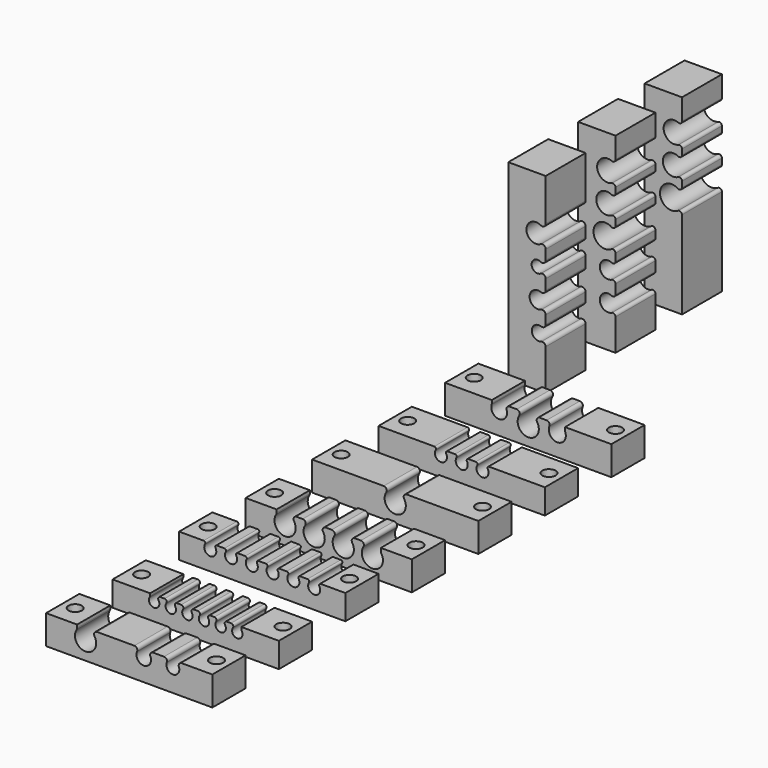
from build123d import *

# Parameters (mm, degrees)
PAD010_DEPTH            = 10
SKETCH018_R             = 1.6
POCKET001_DEPTH         = 6.001
BODY012_PLACEMENT_ANGLE = 180
PAD011_DEPTH            = 10
SKETCH019_R             = 1.6
POCKET002_DEPTH         = 6.001
BODY013_PLACEMENT_ANGLE = 180
PAD012_DEPTH            = 10
SKETCH021_R             = 1.6
POCKET003_DEPTH         = 7.001
BODY014_PLACEMENT_ANGLE = 180
PAD013_DEPTH            = 10
SKETCH023_R             = 1.6
POCKET004_DEPTH         = 6.001
BODY015_PLACEMENT_ANGLE = 180
PAD016_DEPTH            = 10
SKETCH029_R             = 1.6
POCKET007_DEPTH         = 7.001
PAD017_DEPTH            = 10
SKETCH031_R             = 1.6
POCKET017_DEPTH         = 7.001
BODY020_PLACEMENT_ANGLE = 180
PAD021_DEPTH            = 10
SKETCH040_R             = 1.6
POCKET013_DEPTH         = 7.001
PAD023_DEPTH            = 12
SKETCH043_R             = 2
POCKET018_DEPTH         = 5
BODY025_PITCH_ANGLE     = -90
BODY025_PLACEMENT_ANGLE = 180
PAD024_DEPTH            = 12
SKETCH045_R             = 2
POCKET015_DEPTH         = 5
BODY026_PITCH_ANGLE     = -90
BODY026_PLACEMENT_ANGLE = 180
PAD026_DEPTH            = 12
SKETCH048_R             = 2
POCKET016_DEPTH         = 5
BODY030_PITCH_ANGLE     = -90
BODY030_PLACEMENT_ANGLE = -180


with BuildPart() as wires_6_24v:
    # Sketch015 → Pad010 (new body)
    with BuildSketch(Plane.XZ):
        with BuildLine():
            Line((-20, 0), (20, 0))
            Line((20, 0), (20, 6))
            Line((10.964765, 6), (20, 6))
            Line((10.964765, 5.46728), (10.964765, 6))
            ThreePointArc((10.964765, 5.46728), (10.986518, 5.316604), (11.05, 5.178233))
            ThreePointArc((8.95, 5.178233), (10, 3.25), (11.05, 5.178233))
            ThreePointArc((8.95, 5.178233), (8.970367, 5.722044), (8.502515, 6))
            Line((7.497485, 6), (8.502515, 6))
            ThreePointArc((7.497485, 6), (7.029633, 5.722044), (7.05, 5.178233))
            ThreePointArc((4.95, 5.178233), (6, 3.25), (7.05, 5.178233))
            ThreePointArc((4.95, 5.178233), (4.970367, 5.722044), (4.502515, 6))
            Line((3.497485, 6), (4.502515, 6))
            ThreePointArc((3.497485, 6), (3.029633, 5.722044), (3.05, 5.178233))
            ThreePointArc((0.95, 5.178233), (2, 3.25), (3.05, 5.178233))
            ThreePointArc((0.95, 5.178233), (0.970367, 5.722044), (0.502515, 6))
            Line((-0.502515, 6), (0.502515, 6))
            ThreePointArc((-0.502515, 6), (-0.970367, 5.722044), (-0.95, 5.178233))
            ThreePointArc((-3.05, 5.178233), (-2, 3.25), (-0.95, 5.178233))
            ThreePointArc((-3.05, 5.178233), (-3.029633, 5.722044), (-3.497485, 6))
            Line((-4.502515, 6), (-3.497485, 6))
            ThreePointArc((-4.502515, 6), (-4.970367, 5.722044), (-4.95, 5.178233))
            ThreePointArc((-7.05, 5.178233), (-6, 3.25), (-4.95, 5.178233))
            ThreePointArc((-7.05, 5.178233), (-7.029633, 5.722044), (-7.497485, 6))
            Line((-8.502515, 6), (-7.497485, 6))
            ThreePointArc((-8.502515, 6), (-8.970367, 5.722044), (-8.95, 5.178233))
            ThreePointArc((-11.05, 5.178233), (-10, 3.25), (-8.95, 5.178233))
            ThreePointArc((-11.05, 5.178233), (-10.986518, 5.316604), (-10.964765, 5.46728))
            Line((-10.964765, 5.46728), (-10.964765, 6))
            Line((-20, 6), (-10.964765, 6))
            Line((-20, 6), (-20, 0))
        make_face()
    extrude(amount=PAD010_DEPTH)

    # Sketch018 (on Face7 of Pad010) → Pocket001 (cut, through all)
    with BuildSketch(Plane(origin=(0, 0, 6), x_dir=(-1, 0, 0), z_dir=(0, 0, 1))):
        with Locations((-17, 5)):
            Circle(SKETCH018_R)
        with Locations((17, 5)):
            Circle(SKETCH018_R)
    extrude(amount=-POCKET001_DEPTH, mode=Mode.SUBTRACT)


with BuildPart() as wires_6_24v_1:
    # Body012 placement: moved
    add(wires_6_24v.part.moved(Location((60, 70, 0))).rotate(Axis((60, 70, 0), (0, 0, -1)), BODY012_PLACEMENT_ANGLE))


with BuildPart() as wires_3_220v:
    # Sketch016 → Pad011 (new body)
    with BuildSketch(Plane.XZ):
        with BuildLine():
            Line((-20, 0), (20, 0))
            Line((20, 0), (20, 6))
            Line((6.594828, 6), (20, 6))
            ThreePointArc((6.594828, 6), (6.247634, 5.798637), (6.25, 5.397284))
            ThreePointArc((3.75, 5.397284), (5, 3.212437), (6.25, 5.397284))
            ThreePointArc((3.75, 5.397284), (3.752366, 5.798637), (3.405172, 6))
            Line((1.594828, 6), (3.405172, 6))
            ThreePointArc((1.594828, 6), (1.247634, 5.798637), (1.25, 5.397284))
            ThreePointArc((-1.25, 5.397284), (0, 3.212437), (1.25, 5.397284))
            ThreePointArc((-1.25, 5.397284), (-1.247634, 5.798637), (-1.594828, 6))
            Line((-3.405172, 6), (-1.594828, 6))
            ThreePointArc((-3.405172, 6), (-3.752366, 5.798637), (-3.75, 5.397284))
            ThreePointArc((-6.25, 5.397284), (-5, 3.212437), (-3.75, 5.397284))
            ThreePointArc((-6.25, 5.397284), (-6.247634, 5.798637), (-6.594828, 6))
            Line((-20, 6), (-6.594828, 6))
            Line((-20, 6), (-20, 0))
        make_face()
    extrude(amount=PAD011_DEPTH)

    # Sketch019 (on Face4 of Pad011) → Pocket002 (cut, through all)
    with BuildSketch(Plane(origin=(0, 0, 6), x_dir=(-1, 0, 0), z_dir=(0, 0, 1))):
        with Locations((-17, 5)):
            Circle(SKETCH019_R)
        with Locations((17, 5)):
            Circle(SKETCH019_R)
    extrude(amount=-POCKET002_DEPTH, mode=Mode.SUBTRACT)


with BuildPart() as wires_3_220v_1:
    # Body013 placement: moved
    add(wires_3_220v.part.moved(Location((60, 150, 0))).rotate(Axis((60, 150, 0), (0, 0, -1)), BODY013_PLACEMENT_ANGLE))


with BuildPart() as steppers_4_wires:
    # Sketch020 → Pad012 (new body)
    with BuildSketch(Plane.XZ):
        with BuildLine():
            Line((-20, 0), (20, 0))
            Line((20, 0), (20, 7))
            Line((12.534843, 7), (20, 7))
            Line((12.534843, 6.265871), (12.534843, 7))
            ThreePointArc((12.534843, 6.265871), (12.56422, 6.060274), (12.65, 5.871131))
            ThreePointArc((8.35, 5.871131), (10.5, 1.95), (12.65, 5.871131))
            ThreePointArc((8.35, 5.871131), (8.374743, 6.618827), (7.731028, 7))
            Line((6.268972, 7), (7.731028, 7))
            ThreePointArc((6.268972, 7), (5.625257, 6.618827), (5.65, 5.871131))
            ThreePointArc((1.35, 5.871131), (3.5, 1.95), (5.65, 5.871131))
            ThreePointArc((1.35, 5.871131), (1.374743, 6.618827), (0.731028, 7))
            Line((-0.731028, 7), (0.731028, 7))
            ThreePointArc((-0.731028, 7), (-1.374743, 6.618827), (-1.35, 5.871131))
            ThreePointArc((-5.65, 5.871131), (-3.5, 1.95), (-1.35, 5.871131))
            ThreePointArc((-5.65, 5.871131), (-5.625257, 6.618827), (-6.268972, 7))
            Line((-7.731028, 7), (-6.268972, 7))
            ThreePointArc((-7.731028, 7), (-8.374743, 6.618827), (-8.35, 5.871131))
            ThreePointArc((-12.65, 5.871131), (-10.5, 1.95), (-8.35, 5.871131))
            ThreePointArc((-12.65, 5.871131), (-12.56422, 6.060274), (-12.534843, 6.265871))
            Line((-12.534843, 6.265871), (-12.534843, 7))
            Line((-20, 7), (-12.534843, 7))
            Line((-20, 7), (-20, 0))
        make_face()
    extrude(amount=PAD012_DEPTH)

    # Sketch021 (on Face7 of Pad012) → Pocket003 (cut, through all)
    with BuildSketch(Plane(origin=(0, 0, 7), x_dir=(-1, 0, 0), z_dir=(0, 0, 1))):
        with Locations((-17, 5)):
            Circle(SKETCH021_R)
        with Locations((17, 5)):
            Circle(SKETCH021_R)
    extrude(amount=-POCKET003_DEPTH, mode=Mode.SUBTRACT)


with BuildPart() as steppers_4_wires_1:
    # Body014 placement: moved
    add(steppers_4_wires.part.moved(Location((60, 110, 0))).rotate(Axis((60, 110, 0), (0, 0, -1)), BODY014_PLACEMENT_ANGLE))


with BuildPart() as wires_6_220v:
    # Sketch022 → Pad013 (new body)
    with BuildSketch(Plane.XZ):
        with BuildLine():
            Line((-20, 0), (20, 0))
            Line((20, 0), (20, 6))
            Line((14.094828, 6), (20, 6))
            ThreePointArc((14.094828, 6), (13.747634, 5.798637), (13.75, 5.397284))
            ThreePointArc((11.25, 5.397284), (12.5, 3.212437), (13.75, 5.397284))
            ThreePointArc((11.25, 5.397284), (11.252366, 5.798637), (10.905172, 6))
            Line((9.094828, 6), (10.905172, 6))
            ThreePointArc((9.094828, 6), (8.747634, 5.798637), (8.75, 5.397284))
            ThreePointArc((6.25, 5.397284), (7.5, 3.212437), (8.75, 5.397284))
            ThreePointArc((6.25, 5.397284), (6.252366, 5.798637), (5.905172, 6))
            Line((4.094828, 6), (5.905172, 6))
            ThreePointArc((4.094828, 6), (3.747634, 5.798637), (3.75, 5.397284))
            ThreePointArc((1.25, 5.397284), (2.5, 3.212437), (3.75, 5.397284))
            ThreePointArc((1.25, 5.397284), (1.252366, 5.798637), (0.905172, 6))
            Line((-0.905172, 6), (0.905172, 6))
            ThreePointArc((-0.905172, 6), (-1.252366, 5.798637), (-1.25, 5.397284))
            ThreePointArc((-3.75, 5.397284), (-2.5, 3.212437), (-1.25, 5.397284))
            ThreePointArc((-3.75, 5.397284), (-3.747634, 5.798637), (-4.094828, 6))
            Line((-5.905172, 6), (-4.094828, 6))
            ThreePointArc((-5.905172, 6), (-6.252366, 5.798637), (-6.25, 5.397284))
            ThreePointArc((-8.75, 5.397284), (-7.5, 3.212437), (-6.25, 5.397284))
            ThreePointArc((-8.75, 5.397284), (-8.747634, 5.798637), (-9.094828, 6))
            Line((-10.905172, 6), (-9.094828, 6))
            ThreePointArc((-10.905172, 6), (-11.252366, 5.798637), (-11.25, 5.397284))
            ThreePointArc((-13.75, 5.397284), (-12.5, 3.212437), (-11.25, 5.397284))
            ThreePointArc((-13.75, 5.397284), (-13.747634, 5.798637), (-14.094828, 6))
            Line((-14.094828, 6), (-20, 6))
            Line((-20, 6), (-20, 0))
        make_face()
    extrude(amount=PAD013_DEPTH)

    # Sketch023 (on Face4 of Pad013) → Pocket004 (cut, through all)
    with BuildSketch(Plane(origin=(0, 0, 0), x_dir=(1, 0, 0), z_dir=(0, 0, -1))):
        with Locations((-17, 5)):
            Circle(SKETCH023_R)
        with Locations((17, 5)):
            Circle(SKETCH023_R)
    extrude(amount=-POCKET004_DEPTH, mode=Mode.SUBTRACT)


with BuildPart() as wires_6_220v_1:
    # Body015 placement: moved
    add(wires_6_220v.part.moved(Location((60, 90, 2))).rotate(Axis((60, 90, 2), (0, 0, -1)), BODY015_PLACEMENT_ANGLE))


with BuildPart() as obj1:
    # Sketch028 → Pad016 (new body)
    with BuildSketch(Plane.XZ):
        with BuildLine():
            Line((-20, 0), (20, 0))
            Line((20, 0), (20, 7))
            Line((12.636766, 7), (20, 7))
            ThreePointArc((12.636766, 7), (12.032865, 6.683303), (11.95, 6.006452))
            ThreePointArc((9.05, 6.006452), (10.5, 3.90873), (11.95, 6.006452))
            ThreePointArc((9.05, 6.006452), (8.967135, 6.683303), (8.363234, 7))
            Line((5.771204, 7), (8.363234, 7))
            ThreePointArc((5.771204, 7), (5.155876, 6.666268), (5.1, 5.968497))
            ThreePointArc((1.9, 5.968497), (3.5, 3.509625), (5.1, 5.968497))
            ThreePointArc((1.9, 5.968497), (1.844124, 6.666268), (1.228796, 7))
            Line((-7.731028, 7), (1.228796, 7))
            ThreePointArc((-7.731028, 7), (-8.374743, 6.618827), (-8.35, 5.871131))
            ThreePointArc((-12.65, 5.871131), (-10.5, 1.95), (-8.35, 5.871131))
            ThreePointArc((-12.65, 5.871131), (-12.56422, 6.060274), (-12.534843, 6.265871))
            Line((-12.534843, 6.265871), (-12.534843, 7))
            Line((-20, 7), (-12.534843, 7))
            Line((-20, 7), (-20, 0))
        make_face()
    extrude(amount=PAD016_DEPTH)

    # Sketch029 (on Face7 of Pad016) → Pocket007 (cut, through all)
    with BuildSketch(Plane(origin=(0, 0, 7), x_dir=(-1, 0, 0), z_dir=(0, 0, 1))):
        with Locations((-17, 5)):
            Circle(SKETCH029_R)
        with Locations((17, 5)):
            Circle(SKETCH029_R)
    extrude(amount=-POCKET007_DEPTH, mode=Mode.SUBTRACT)


with BuildPart() as obj1_1:
    # Body019 placement: moved
    add(obj1.part.moved(Location((60, 60, 0))))


with BuildPart() as wires_stepper:
    # Sketch030 → Pad017 (new body)
    with BuildSketch(Plane.XZ):
        with BuildLine():
            Line((-20, 0), (20, 0))
            Line((20, 0), (20, 7))
            Line((2.768972, 7), (20, 7))
            ThreePointArc((2.768972, 7), (2.125257, 6.618827), (2.15, 5.871131))
            ThreePointArc((-2.15, 5.871131), (0, 1.95), (2.15, 5.871131))
            ThreePointArc((-2.15, 5.871131), (-2.125257, 6.618827), (-2.768972, 7))
            Line((-20, 7), (-2.768972, 7))
            Line((-20, 7), (-20, 0))
        make_face()
    extrude(amount=PAD017_DEPTH)

    # Sketch031 (on Face8 of Pad017) → Pocket017 (cut, through all)
    with BuildSketch(Plane(origin=(0, 0, 7), x_dir=(-1, 0, 0), z_dir=(0, 0, 1))):
        with Locations((-17, 5)):
            Circle(SKETCH031_R)
        with Locations((17, 5)):
            Circle(SKETCH031_R)
    extrude(amount=-POCKET017_DEPTH, mode=Mode.SUBTRACT)


with BuildPart() as wires_stepper_1:
    # Body020 placement: moved
    add(wires_stepper.part.moved(Location((60, 130, 0))).rotate(Axis((60, 130, 0), (0, 0, -1)), BODY020_PLACEMENT_ANGLE))


with BuildPart() as wires_back:
    # Sketch039 → Pad021 (new body)
    with BuildSketch(Plane.XZ):
        with BuildLine():
            Line((-20, 0), (20, 0))
            Line((20, 0), (20, 7))
            Line((8.846283, 7), (20, 7))
            Line((8.846283, 6.265871), (8.846283, 7))
            ThreePointArc((8.846283, 6.265871), (8.859838, 6.125452), (8.9, 5.990218))
            ThreePointArc((5.1, 5.990218), (7, 3.170478), (8.9, 5.990218))
            ThreePointArc((5.1, 5.990218), (5.028402, 6.676103), (4.419588, 7))
            Line((2.768972, 7), (4.419588, 7))
            ThreePointArc((2.768972, 7), (2.125257, 6.618827), (2.15, 5.871131))
            ThreePointArc((-2.15, 5.871131), (0, 1.95), (2.15, 5.871131))
            ThreePointArc((-2.15, 5.871131), (-2.125257, 6.618827), (-2.768972, 7))
            Line((-4.504509, 7), (-2.768972, 7))
            ThreePointArc((-4.504509, 7), (-5.100951, 6.693892), (-5.2, 6.030843))
            ThreePointArc((-8.8, 6.030843), (-7, 3.522567), (-5.2, 6.030843))
            ThreePointArc((-8.8, 6.030843), (-8.771086, 6.146779), (-8.761362, 6.265871))
            Line((-8.761362, 6.265871), (-8.761362, 7))
            Line((-20, 7), (-8.761362, 7))
            Line((-20, 7), (-20, 0))
        make_face()
    extrude(amount=PAD021_DEPTH)

    # Sketch040 (on Face7 of Pad021) → Pocket013 (cut, through all)
    with BuildSketch(Plane(origin=(0, 0, 7), x_dir=(-1, 0, 0), z_dir=(0, 0, 1))):
        with Locations((-17, 5)):
            Circle(SKETCH040_R)
        with Locations((17, 5)):
            Circle(SKETCH040_R)
    extrude(amount=-POCKET013_DEPTH, mode=Mode.SUBTRACT)


with BuildPart() as wires_back_1:
    # Body024 placement: moved
    add(wires_back.part.moved(Location((60, 180, 0))))


with BuildPart() as obj2:
    # Sketch042 → Pad023 (new body)
    with BuildSketch(Plane.XZ):
        with BuildLine():
            Line((-23, 0), (23, 0))
            Line((23, 0), (23, 9))
            Line((23, 9), (17.933657, 9))
            ThreePointArc((17.933657, 9), (17.40601, 8.716949), (17.35, 8.120801))
            ThreePointArc((12.65, 8.120801), (15, 4.580851), (17.35, 8.120801))
            ThreePointArc((12.65, 8.120801), (12.59399, 8.716949), (12.066343, 9))
            Line((10.757325, 9), (12.066343, 9))
            ThreePointArc((10.757325, 9), (10.213444, 8.69116), (10.2, 8.065854))
            ThreePointArc((5.8, 8.065854), (8, 4.37842), (10.2, 8.065854))
            ThreePointArc((5.8, 8.065854), (5.786555, 8.691163), (5.242669, 9))
            Line((3.881545, 9), (5.242669, 9))
            ThreePointArc((3.881545, 9), (3.325134, 8.669183), (3.35, 8.022334))
            ThreePointArc((-1.35, 8.022334), (1, 3.7), (3.35, 8.022334))
            ThreePointArc((-1.35, 8.022334), (-1.325134, 8.669183), (-1.881545, 9))
            Line((-3.630003, 9), (-1.881545, 9))
            ThreePointArc((-3.630003, 9), (-4.166634, 8.703024), (-4.2, 8.090607))
            ThreePointArc((-7.8, 8.090607), (-6, 5.218827), (-4.2, 8.090607))
            ThreePointArc((-7.8, 8.090607), (-7.833366, 8.703024), (-8.369997, 9))
            Line((-8.369997, 9), (-10.630003, 9))
            ThreePointArc((-10.630003, 9), (-11.166634, 8.703024), (-11.2, 8.090607))
            ThreePointArc((-14.8, 8.090607), (-13, 5.218827), (-11.2, 8.090607))
            ThreePointArc((-14.8, 8.090607), (-14.833366, 8.703024), (-15.369997, 9))
            Line((-15.369997, 9), (-23, 9))
            Line((-23, 9), (-23, 0))
        make_face()
    extrude(amount=PAD023_DEPTH)

    # Sketch043 (on Face3 of Pad023) → Pocket018 (cut)
    with BuildSketch(Plane(origin=(-23, 0, 0), x_dir=(0, 0, -1), z_dir=(-1, 0, 0))):
        with Locations((-4.5, 8.8)):
            Circle(SKETCH043_R)
        with Locations((-4.5, 3.2)):
            Circle(SKETCH043_R)
    extrude(amount=-POCKET018_DEPTH, mode=Mode.SUBTRACT)


with BuildPart() as obj2_1:
    # Body025 pitch: moved
    add(obj2.part.rotate(Axis((0, 0, 0), (0, 1, 0)), BODY025_PITCH_ANGLE))


with BuildPart() as obj2_2:
    # Body025 placement: moved
    add(obj2_1.part.moved(Location((40, 210, 23))).rotate(Axis((40, 210, 23), (0, 0, 1)), BODY025_PLACEMENT_ANGLE))


with BuildPart() as obj3:
    # Sketch044 → Pad024 (new body)
    with BuildSketch(Plane.XZ):
        with BuildLine():
            Line((-23, 0), (23, 0))
            Line((23, 0), (23, 9))
            Line((23, 9), (12.87048, 9))
            ThreePointArc((12.87048, 9), (12.179089, 8.602465), (12.174828, 7.804946))
            ThreePointArc((8.174828, 7.804946), (10.174828, 4.369164), (12.174828, 7.804946))
            ThreePointArc((8.174828, 7.804946), (8.170567, 8.602465), (7.479175, 9))
            Line((5.114493, 9), (7.479175, 9))
            ThreePointArc((5.114493, 9), (4.420099, 8.597279), (4.424828, 7.794567))
            ThreePointArc((1.924828, 7.794567), (3.174828, 5.60972), (4.424828, 7.794567))
            ThreePointArc((1.924828, 7.794567), (1.929559, 8.597274), (1.235172, 9))
            Line((-1.235172, 9), (1.235172, 9))
            ThreePointArc((-1.235172, 9), (-1.899694, 8.645433), (-1.975172, 7.896026))
            ThreePointArc((-5.675172, 7.896026), (-3.825172, 5.136092), (-1.975172, 7.896026))
            ThreePointArc((-5.675172, 7.896026), (-5.75065, 8.645433), (-6.415172, 9))
            Line((-8.472231, 9), (-6.415172, 9))
            ThreePointArc((-8.472231, 9), (-9.12655, 8.66029), (-9.225172, 7.929668))
            ThreePointArc((-12.425172, 7.929668), (-10.825172, 5.655211), (-9.225172, 7.929668))
            ThreePointArc((-12.425172, 7.929668), (-12.523798, 8.660295), (-13.178124, 9))
            Line((-13.178124, 9), (-23, 9))
            Line((-23, 9), (-23, 0))
        make_face()
    extrude(amount=PAD024_DEPTH)

    # Sketch045 (on Face3 of Pad024) → Pocket015 (cut)
    with BuildSketch(Plane(origin=(-23, 0, 0), x_dir=(0, 0, -1), z_dir=(-1, 0, 0))):
        with Locations((-4.5, 8.8)):
            Circle(SKETCH045_R)
        with Locations((-4.5, 3.2)):
            Circle(SKETCH045_R)
    extrude(amount=-POCKET015_DEPTH, mode=Mode.SUBTRACT)


with BuildPart() as obj3_1:
    # Body026 pitch: moved
    add(obj3.part.rotate(Axis((0, 0, 0), (0, 1, 0)), BODY026_PITCH_ANGLE))


with BuildPart() as obj3_2:
    # Body026 placement: moved
    add(obj3_1.part.moved(Location((40, 189, 23))).rotate(Axis((40, 189, 23), (0, 0, 1)), BODY026_PLACEMENT_ANGLE))


with BuildPart() as wires_usb_usb_eth:
    # Sketch047 → Pad026 (new body)
    with BuildSketch(Plane.XZ):
        with BuildLine():
            Line((-23, 0), (23, 0))
            Line((23, 0), (23, 9))
            Line((23, 9), (17.933657, 9))
            ThreePointArc((17.933657, 9), (17.40601, 8.716949), (17.35, 8.120801))
            ThreePointArc((12.65, 8.120801), (15, 4.580851), (17.35, 8.120801))
            ThreePointArc((12.65, 8.120801), (12.59399, 8.716949), (12.066343, 9))
            Line((10.757331, 9), (12.066343, 9))
            ThreePointArc((10.757331, 9), (10.213445, 8.691163), (10.2, 8.065854))
            ThreePointArc((5.8, 8.065854), (8, 4.37842), (10.2, 8.065854))
            ThreePointArc((5.8, 8.065854), (5.786555, 8.691163), (5.242669, 9))
            Line((3.881545, 9), (5.242669, 9))
            ThreePointArc((3.881545, 9), (3.325134, 8.669183), (3.35, 8.022334))
            ThreePointArc((-1.35, 8.022334), (1, 3.7), (3.35, 8.022334))
            ThreePointArc((-1.35, 8.022334), (-1.325134, 8.669183), (-1.881545, 9))
            Line((-1.881545, 9), (-23, 9))
            Line((-23, 9), (-23, 0))
        make_face()
    extrude(amount=PAD026_DEPTH)

    # Sketch048 (on Face3 of Pad026) → Pocket016 (cut)
    with BuildSketch(Plane(origin=(-23, 0, 0), x_dir=(0, 0, -1), z_dir=(-1, 0, 0))):
        with Locations((-4.5, 8.8)):
            Circle(SKETCH048_R)
        with Locations((-4.5, 3.2)):
            Circle(SKETCH048_R)
    extrude(amount=-POCKET016_DEPTH, mode=Mode.SUBTRACT)


with BuildPart() as wires_usb_usb_eth_1:
    # Body030 pitch: moved
    add(wires_usb_usb_eth.part.rotate(Axis((0, 0, 0), (0, 1, 0)), BODY030_PITCH_ANGLE))


with BuildPart() as wires_usb_usb_eth_2:
    # Body030 placement: moved
    add(wires_usb_usb_eth_1.part.moved(Location((40, 230, 23))).rotate(Axis((40, 230, 23), (0, 0, 1)), BODY030_PLACEMENT_ANGLE))


solid = Compound([wires_6_24v_1.part, wires_3_220v_1.part, steppers_4_wires_1.part, wires_6_220v_1.part, obj1_1.part, wires_stepper_1.part, wires_back_1.part, obj2_2.part, obj3_2.part, wires_usb_usb_eth_2.part])
